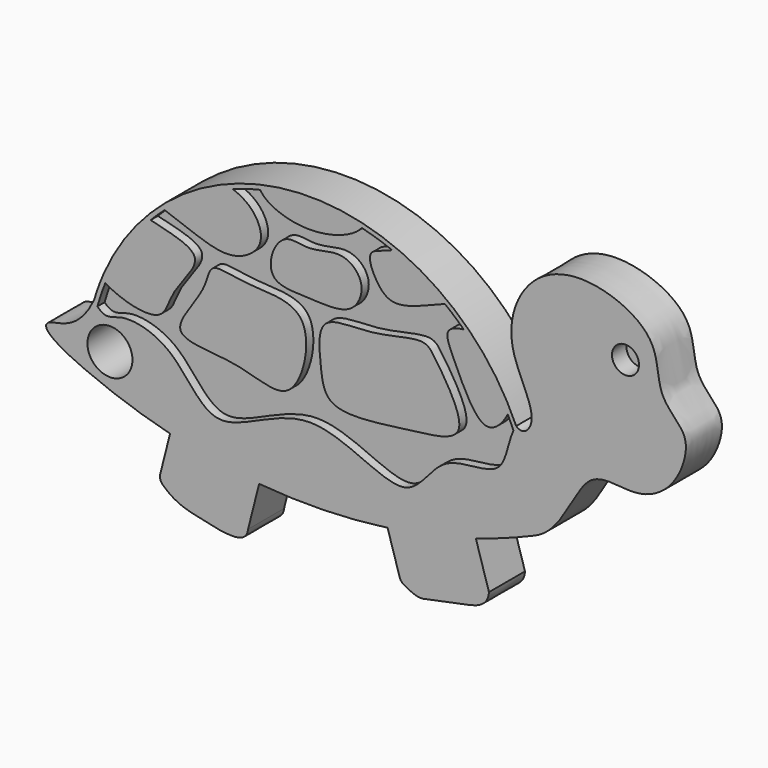
from build123d import *

# Parameters (mm, degrees)
F0_R     = 1.5
F1_DEPTH = 5
F3_DEPTH = 1
F4_R     = 1
F5_DEPTH = 3
F6_R     = 2.5
F7_DEPTH = 5.0010001


with BuildPart() as f1:
    # F0 (on Front) → F1 (new body)
    with BuildSketch(Plane.XZ):
        with BuildLine():
            ThreePointArc((18.4177096867, -2.4134750689), (21.7423686402, -1.298139987), (25, 0))
            ThreePointArc((25, 0), (24.8526912222, 2.7099333963), (24.412500879, 5.3879310345))
            ThreePointArc((24.412500879, 5.3879310345), (0, 0), (-24.412500879, 5.3879310345))
            ThreePointArc((-24.412500879, 5.3879310345), (-24.8526912222, 2.7099333963), (-25, 0))
            ThreePointArc((-25, 0), (-20.3299160013, -1.7971112628), (-15.5322193849, -3.2188709548))
            ThreePointArc((-15.5322193849, -3.2188709548), (-10.6213598293, -4.2590291875), (-5.6434052563, -4.9058977928))
            ThreePointArc((-5.6434052563, -4.9058977928), (1.4978915861, -5.1407659187), (8.620017638, -4.5675258894))
            ThreePointArc((8.620017638, -4.5675258894), (13.5616982143, -3.6853332774), (18.4177096867, -2.4134750689))
        make_face()
        with BuildLine():
            ThreePointArc((24.412500879, 5.3879310345), (24.8526912222, 2.7099333963), (25, 0))
            add(Edge.make_bspline(
                [(22.9015781423, 10.0258525119), (23.6886603767, 9.3399714746), (25.8671650018, 11.4884284854), (21.0553616327, 17.6333517293), (23.8542310759, 25.3922963139), (30.6627695395, 27.7074972458), (38.9510222692, 24.1657952199), (38.3982620659, 18.4391354476), (40.9802763449, 16.2283032762), (42.1893458407, 14.2411377013), (40.5991332125, 9.5333237588), (36.2112616167, 7.0791854693), (29.9462070754, 9.2928146862), (28.1981291664, 1.378503951), (25, 0)],
                knots=[0, 0, 0, 0, 0.051596406, 0.1493856021, 0.2482189007, 0.3429215849, 0.4457836769, 0.5274580176, 0.5920961365, 0.6455222481, 0.7235241588, 0.8033943388, 0.8855533421, 1, 1, 1, 1], degree=3))
            ThreePointArc((22.9015781423, 10.0258525119), (23.7704248451, 7.7438299751), (24.412500879, 5.3879310345))
        make_face()
        with Locations((35.0370779634, 20.4384513199)):
            Circle(F0_R, mode=Mode.SUBTRACT)
        with BuildLine():
            ThreePointArc((-24.412500879, 5.3879310345), (0, 0), (24.412500879, 5.3879310345))
            ThreePointArc((24.412500879, 5.3879310345), (23.7704248451, 7.7438299751), (22.9015781423, 10.0258525119))
            ThreePointArc((22.9015781423, 10.0258525119), (0, 4.8398541329), (-22.9015781423, 10.0258525119))
            add(Edge.make_bspline(
                [(-22.9015781423, 10.0258525119), (-23.2351862329, 8.8235299034), (-23.6001207602, 7.8515623845), (-23.9813889786, 7.0634964895)],
                knots=[0, 0, 0, 0, 0.1005540807, 0.1005540807, 0.1005540807, 0.1005540807], degree=3))
            ThreePointArc((-23.9813889786, 7.0634964895), (-24.2114440665, 6.2294442942), (-24.412500879, 5.3879310345))
        make_face()
        with BuildLine():
            Line((19.8757636886, -7.1961603531), (18.4177096867, -2.4134750689))
            ThreePointArc((18.4177096867, -2.4134750689), (13.5616982143, -3.6853332774), (8.620017638, -4.5675258894))
            Line((8.620017638, -4.5675258894), (10.0780716398, -9.3502111736))
            add(Edge.make_bspline(
                [(10.0780716398, -9.3502111736), (11.7320583141, -10.2926386233), (12.5145949667, -10.3383170677), (16.4467889746, -9.2849186664), (19.7505056623, -8.9158460621), (19.8757636886, -7.1961603531)],
                knots=[0, 0, 0, 0, 0.3011804108, 0.646239886, 1, 1, 1, 1], degree=3))
        make_face()
        with BuildLine():
            ThreePointArc((-22.9015781423, 10.0258525119), (0, 4.8398541329), (22.9015781423, 10.0258525119))
            ThreePointArc((22.9015781423, 10.0258525119), (0, 25), (-22.9015781423, 10.0258525119))
        make_face()
        with BuildLine():
            ThreePointArc((-25, 0), (-24.8526912222, 2.7099333963), (-24.412500879, 5.3879310345))
            ThreePointArc((-24.412500879, 5.3879310345), (-24.2114440665, 6.2294442942), (-23.9813889786, 7.0634964895))
            add(Edge.make_bspline(
                [(-23.9813889786, 7.0634964895), (-25.7621170549, 3.3828040071), (-29.8549027225, 4.0165840436), (-29.6518467718, 2.0051063672), (-25, 0)],
                knots=[0.1005540807, 0.1005540807, 0.1005540807, 0.1005540807, 0.5701958346, 1, 1, 1, 1], degree=3))
        make_face()
        with BuildLine():
            add(Edge.make_bspline(
                [(-22.9015781423, 10.0258525119), (-23.2351862329, 8.8235299034), (-23.6001207602, 7.8515623845), (-23.9813889786, 7.0634964895)],
                knots=[0, 0, 0, 0, 0.1005540807, 0.1005540807, 0.1005540807, 0.1005540807], degree=3))
            ThreePointArc((-22.9015781423, 10.0258525119), (-23.4882319432, 8.5617147923), (-23.9813889786, 7.0634964895))
        make_face()
        with BuildLine():
            Line((-6.8730269094, -9.7523429426), (-5.6434052563, -4.9058977928))
            ThreePointArc((-5.6434052563, -4.9058977928), (-10.6213598293, -4.2590291875), (-15.5322193849, -3.2188709548))
            Line((-15.5322193849, -3.2188709548), (-16.761841038, -8.0653161046))
            add(Edge.make_bspline(
                [(-16.761841038, -8.0653161046), (-15.2153235605, -9.7364057037), (-12.611793015, -10.2719759302), (-8.8466964127, -11.2122194261), (-7.0029399358, -10.7948770747), (-6.8730269094, -9.7523429426)],
                knots=[0, 0, 0, 0, 0.3943235222, 0.7381365006, 1, 1, 1, 1], degree=3))
        make_face()
    extrude(amount=F1_DEPTH)

    # F2 (on face) → F3 (cut)
    with BuildSketch(Plane.XZ.offset(5)):
        with BuildLine():
            add(Edge.make_bspline(
                [(-5.5117468247, 23.8719636172), (-4.8466830992, 22.6659394847), (0.0178621552, 20.8567488279), (4.9277718709, 22.7145750546), (5.7413987772, 23.8177736172)],
                knots=[0.0559832368, 0.0559832368, 0.0559832368, 0.0559832368, 0.4951535011, 0.9396038489, 0.9396038489, 0.9396038489, 0.9396038489], degree=3))
            ThreePointArc((-5.5117468247, 23.8719636172), (-7.0553094626, 23.4621526802), (-8.568893287, 22.9526483839))
            add(Edge.make_bspline(
                [(-16.1346788612, 18.436977465), (-12.8122330386, 17.3133120841), (-9.1516039682, 15.365389827), (-4.6747183972, 18.370451431), (-6.0930706483, 21.7404816267), (-7.7714657517, 22.6515594283), (-8.568893287, 22.9526483839)],
                knots=[0.0175409345, 0.0175409345, 0.0175409345, 0.0175409345, 0.3423219646, 0.5758560444, 0.7849871505, 0.9499297766, 0.9499297766, 0.9499297766, 0.9499297766], degree=3))
            ThreePointArc((-16.1346788612, 18.436977465), (-16.9251516998, 17.7140972093), (-17.6832713975, 16.9573557102))
            add(Edge.make_bspline(
                [(-17.6832713975, 16.9573557102), (-15.7557053572, 16.4562735722), (-10.6809893941, 15.553858069), (-15.6322902, 10.977326257), (-16.0084422485, 6.9617527115), (-20.5882619443, 7.9310590615), (-22.7279298424, 9.1482897352)],
                knots=[0.0241100155, 0.0241100155, 0.0241100155, 0.0241100155, 0.2694464761, 0.5099361751, 0.7149940416, 0.9816758374, 0.9816758374, 0.9816758374, 0.9816758374], degree=3))
            ThreePointArc((-22.7279298424, 9.1482897352), (-23.1972816273, 7.8826470875), (-23.5962148355, 6.5930755675))
            add(Edge.make_bspline(
                [(-23.5962148355, 6.5930755675), (-22.6472196469, 5.591847443), (-21.0146539742, 7.0084935993), (-14.7317166952, 5.5648306464), (-10.6862923148, -3.0750924008), (-0.0847534422, 6.2884968913), (11.0473148594, -2.9998374579), (14.2558241019, 5.3013325455), (21.7928192601, 3.8527375499), (21.9170323033, 8.0153219112), (22.595006908, 9.4718352406)],
                knots=[0.0096916096, 0.0096916096, 0.0096916096, 0.0096916096, 0.084643466, 0.201939054, 0.3318144821, 0.4904717891, 0.6514539037, 0.7708308346, 0.8892061416, 0.9870165769, 0.9870165769, 0.9870165769, 0.9870165769], degree=3))
            ThreePointArc((22.595006908, 9.4718352406), (22.2890347066, 10.1709848022), (21.9614352126, 10.8602653468))
            add(Edge.make_bspline(
                [(17.0747765796, 17.5699176081), (16.2648341921, 17.4767597495), (14.7101795411, 16.9657113759), (16.1636854543, 13.9726892734), (19.0785227351, 7.3874643163), (21.338327117, 9.6718468371), (21.9614352126, 10.8602653468)],
                knots=[0.0424748364, 0.0424748364, 0.0424748364, 0.0424748364, 0.2053598353, 0.4301318257, 0.7512082976, 0.9663538162, 0.9663538162, 0.9663538162, 0.9663538162], degree=3))
            ThreePointArc((17.0747765796, 17.5699176081), (16.0547029212, 18.5066613443), (14.9833280585, 19.3842688872))
            add(Edge.make_bspline(
                [(9.1236528852, 22.7378309878), (8.2603835742, 22.2857162417), (5.947008953, 22.1592614642), (7.4114581427, 18.7614187058), (9.5258008414, 16.9537445549), (13.0793161878, 18.6663665233), (14.9833280585, 19.3842688872)],
                knots=[0.0402566369, 0.0402566369, 0.0402566369, 0.0402566369, 0.2356528709, 0.4561169416, 0.667702929, 0.9703357411, 0.9703357411, 0.9703357411, 0.9703357411], degree=3))
            ThreePointArc((9.1236528852, 22.7378309878), (7.4521144149, 23.3391514573), (5.7413987772, 23.8177736172))
        make_face()
        with BuildLine():
            add(Edge.make_bspline(
                [(-10.7666407712, 14.4996950403), (-11.3094817197, 14.1685889978), (-11.3273024015, 11.9224570922), (-16.9212666745, 5.9515058238), (-7.6202750112, 6.5487970033), (-1.5101719973, 3.0342330517), (1.0466123467, 14.5669234), (-6.9066401629, 13.8615556481), (-10.1203809527, 14.8938814617), (-10.7666407712, 14.4996950403)],
                knots=[0, 0, 0, 0, 0.1018048293, 0.2464873503, 0.4041509202, 0.5545226417, 0.7228130551, 0.8787999124, 1, 1, 1, 1], degree=3))
        make_face(mode=Mode.SUBTRACT)
        with BuildLine():
            add(Edge.make_bspline(
                [(-2.5079648476, 20.0307350606), (-1.791903519, 20.2365409279), (0.0535594365, 19.5406375668), (3.5852610465, 21.0336975604), (6.3617591538, 18.5292231236), (4.8439712744, 14.6945874961), (0.123456804, 15.114145772), (-4.5594115175, 15.0370149911), (-4.3730177119, 18.4271382796), (-3.2023897442, 19.8311478012), (-2.5079648476, 20.0307350606)],
                knots=[0, 0, 0, 0, 0.1117353871, 0.2450823389, 0.3651044225, 0.487790428, 0.6385748457, 0.7799987076, 0.8916407973, 1, 1, 1, 1], degree=3))
        make_face(mode=Mode.SUBTRACT)
        with BuildLine():
            add(Edge.make_bspline(
                [(1.659257221, 13.0601096898), (0.8539623872, 12.2262133761), (1.1870278815, 8.8060452952), (1.7402418706, 4.2925611737), (10.9208908022, 5.8979605049), (18.6461404809, 6.4969342153), (14.0214192017, 13.564151827), (12.6918663381, 15.4837236511), (6.8901243718, 13.464734016), (2.5574243871, 13.990176862), (1.659257221, 13.0601096898)],
                knots=[0, 0, 0, 0, 0.1146090606, 0.2192410876, 0.3833991319, 0.5169866227, 0.6565870634, 0.7383258703, 0.8721734068, 1, 1, 1, 1], degree=3))
        make_face(mode=Mode.SUBTRACT)
    extrude(amount=-F3_DEPTH, mode=Mode.SUBTRACT)

    # F4
    f4_edges = [f1.edges().sort_by_distance(p)[0] for p in [
        (-16.761841, -2.5, -8.065316),
        (10.078072, -2.5, -9.350211),
    ]]
    fillet(f4_edges, radius=F4_R)

    # F0 (on Front) → F5 (join)
    with BuildSketch(Plane.XZ):
        with Locations((35.0370779634, 20.4384513199)):
            Circle(F0_R)
    extrude(amount=F5_DEPTH)

    # F6 (on face) → F7 (cut, through all)
    with BuildSketch(Plane.XZ.offset(5)):
        with Locations((-22.2081423717, 2.6290807598)):
            Circle(F6_R)
    extrude(amount=-F7_DEPTH, mode=Mode.SUBTRACT)


solid = f1.part
